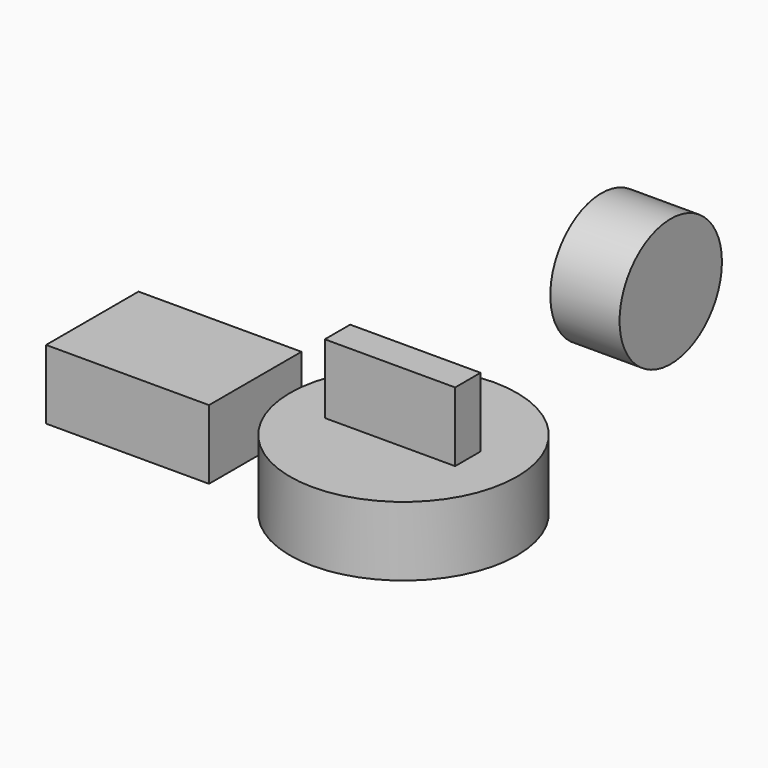
from build123d import *

# Parameters (mm, degrees)
F0_R     = 41.596931
F0_W     = 59.718154
F0_H     = 42.351853
F1_DEPTH = 25.4
F2_R     = 23.443831
F3_DEPTH = 25.4
F4_W     = 47.780975
F4_H     = 11.636088
F5_DEPTH = 25.4


with BuildPart() as f1:
    # F0 (on Top) → F1 (new body)
    with BuildSketch(Plane.XY):
        with Locations((-10.985292, 5.937867)):
            Circle(F0_R)
        with Locations((-95.818374, 6.710134)):
            Rectangle(F0_W, F0_H)
    extrude(amount=F1_DEPTH)

    # F4 (on face) → F5 (join)
    with BuildSketch(Plane.XY.offset(25.4)):
        with Locations((-11.202571, 5.818044)):
            Rectangle(F4_W, F4_H)
    extrude(amount=F5_DEPTH)


with BuildPart() as f3:
    # F2 (on Right) → F3 (new body)
    with BuildSketch(Plane.YZ):
        with Locations((82.898386, 52.226916)):
            Circle(F2_R)
    extrude(amount=F3_DEPTH)


solid = Compound([f1.part, f3.part])
